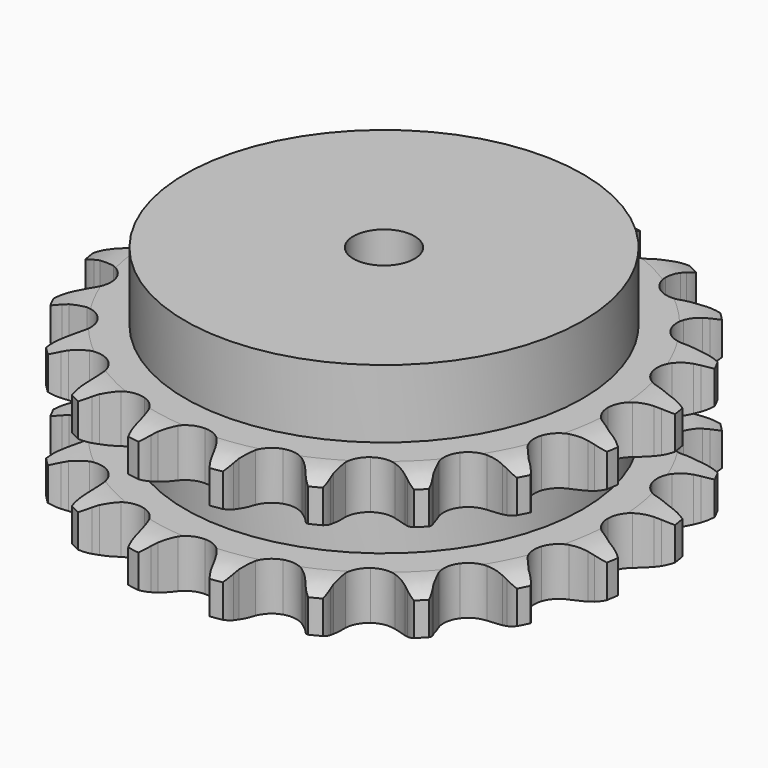
from build123d import *

# Parameters (mm, degrees)
PAD_DEPTH         = 47.7
SKETCH001_R       = 65
PAD001_DEPTH      = 70
SKETCH002_R       = 10
POCKET_DEPTH      = 0.0010001
POCKET_DEPTH_BACK = 70.001


with BuildPart() as part:
    # Sprocket → Pad (new body)
    with BuildSketch(Plane.XY):
        with BuildLine():
            ThreePointArc((-13.9557700893, 88.11326454), (-11.5599694596, 85.7200479297), (-9.8560429758, 82.7936199126))
            Line((-9.8560429758, 82.7936199126), (-9.0917752408, 80.9754988162))
            ThreePointArc((-9.0917752408, 80.9754988162), (-7.8619471368, 78.5195888422), (-6.3181126203, 76.2479053362))
            ThreePointArc((-6.3181126203, 76.2479053362), (-3.5147721807, 73.9778050086), (0, 73.166355913))
            ThreePointArc((0, 73.166355913), (3.5147721807, 73.9778050086), (6.3181126203, 76.2479053362))
            ThreePointArc((6.3181126203, 76.2479053362), (7.8619471368, 78.5195888422), (9.0917752408, 80.9754988162))
            Line((9.0917752408, 80.9754988162), (9.8560429758, 82.7936199126))
            ThreePointArc((9.8560429758, 82.7936199126), (11.5599694596, 85.7200479297), (13.9557700893, 88.11326454))
            ThreePointArc((13.9557700893, 88.11326454), (15.4947672862, 85.0968371782), (16.2109816818, 81.7870965024))
            Line((16.2109816818, 81.7870965024), (16.3760131748, 79.8217888679))
            ThreePointArc((16.3760131748, 79.8217888679), (16.7867312884, 77.1060418993), (17.5530163562, 74.4684713959))
            ThreePointArc((17.5530163562, 74.4684713959), (19.5176519685, 71.4431978499), (22.6096473936, 69.5853395647))
            ThreePointArc((22.6096473936, 69.5853395647), (26.20314594, 69.2709491795), (29.5707807126, 70.5636630518))
            Line((29.5707807126, 70.5636630518), (33.6695973496, 74.202762751))
            ThreePointArc((33.6695973496, 74.202762751), (34.296171492, 74.9645851603), (34.9582894759, 75.6957269487))
            ThreePointArc((34.9582894759, 75.6957269487), (37.4831358516, 77.9523831433), (40.5012222561, 79.4881242856))
            ThreePointArc((40.5012222561, 79.4881242856), (41.0327682517, 76.1437550991), (40.6911625038, 72.7746822423))
            Line((40.6911625038, 72.7746822423), (40.2408033224, 70.854566074))
            ThreePointArc((40.2408033224, 70.854566074), (39.792207495, 68.144818346), (39.7059337926, 65.399544623))
            ThreePointArc((39.7059337926, 65.399544623), (40.6395523555, 61.9152327115), (43.0061049697, 59.1928253501))
            ThreePointArc((43.0061049697, 59.1928253501), (46.3265732066, 57.7833702055), (49.928854757, 57.9721577819))
            Line((49.928854757, 57.9721577819), (54.95160468, 60.1665432666))
            ThreePointArc((54.95160468, 60.1665432666), (55.7829281723, 60.6974573751), (56.6385750333, 61.188208828))
            ThreePointArc((56.6385750333, 61.188208828), (59.7371917461, 62.5541959685), (63.0821325998, 63.0821325998))
            ThreePointArc((63.0821325998, 63.0821325998), (62.5541959685, 59.7371917461), (61.188208828, 56.6385750333))
            Line((61.188208828, 56.6385750333), (60.1665432666, 54.95160468))
            ThreePointArc((60.1665432666, 54.95160468), (58.9025451834, 52.51310518), (57.9721577819, 49.928854757))
            ThreePointArc((57.9721577819, 49.928854757), (57.7833702055, 46.3265732066), (59.1928253501, 43.0061049697))
            ThreePointArc((59.1928253501, 43.0061049697), (61.9152327115, 40.6395523555), (65.399544623, 39.7059337926))
            Line((65.399544623, 39.7059337926), (70.854566074, 40.2408033224))
            ThreePointArc((70.854566074, 40.2408033224), (71.8092631805, 40.4888395579), (72.7746822423, 40.6911625038))
            ThreePointArc((72.7746822423, 40.6911625038), (76.1437550991, 41.0327682517), (79.4881242856, 40.5012222561))
            ThreePointArc((79.4881242856, 40.5012222561), (77.9523831433, 37.4831358516), (75.6957269487, 34.9582894759))
            Line((75.6957269487, 34.9582894759), (74.202762751, 33.6695973496))
            ThreePointArc((74.202762751, 33.6695973496), (72.2470913511, 31.7410433988), (70.5636630518, 29.5707807126))
            ThreePointArc((70.5636630518, 29.5707807126), (69.2709491795, 26.20314594), (69.5853395647, 22.6096473936))
            ThreePointArc((69.5853395647, 22.6096473936), (71.4431978499, 19.5176519685), (74.4684713959, 17.5530163562))
            Line((74.4684713959, 17.5530163562), (79.8217888679, 16.3760131748))
            ThreePointArc((79.8217888679, 16.3760131748), (80.8064071841, 16.3168920224), (81.7870965024, 16.2109816818))
            ThreePointArc((81.7870965024, 16.2109816818), (85.0968371782, 15.4947672862), (88.11326454, 13.9557700893))
            ThreePointArc((88.11326454, 13.9557700893), (85.7200479297, 11.5599694596), (82.7936199126, 9.8560429758))
            Line((82.7936199126, 9.8560429758), (80.9754988162, 9.0917752408))
            ThreePointArc((80.9754988162, 9.0917752408), (78.5195888422, 7.8619471368), (76.2479053362, 6.3181126203))
            ThreePointArc((76.2479053362, 6.3181126203), (73.9778050086, 3.5147721807), (73.166355913, 0))
            ThreePointArc((73.166355913, 0), (73.9778050086, -3.5147721807), (76.2479053362, -6.3181126203))
            Line((76.2479053362, -6.3181126203), (80.9754988162, -9.0917752408))
            ThreePointArc((80.9754988162, -9.0917752408), (81.8936570411, -9.4522665907), (82.7936199126, -9.8560429758))
            ThreePointArc((82.7936199126, -9.8560429758), (85.7200479297, -11.5599694596), (88.11326454, -13.9557700893))
            ThreePointArc((88.11326454, -13.9557700893), (85.0968371782, -15.4947672862), (81.7870965024, -16.2109816818))
            Line((81.7870965024, -16.2109816818), (79.8217888679, -16.3760131748))
            ThreePointArc((79.8217888679, -16.3760131748), (77.1060418993, -16.7867312884), (74.4684713959, -17.5530163562))
            ThreePointArc((74.4684713959, -17.5530163562), (71.4431978499, -19.5176519685), (69.5853395647, -22.6096473936))
            ThreePointArc((69.5853395647, -22.6096473936), (69.2709491795, -26.20314594), (70.5636630518, -29.5707807126))
            Line((70.5636630518, -29.5707807126), (74.202762751, -33.6695973496))
            ThreePointArc((74.202762751, -33.6695973496), (74.9645851603, -34.296171492), (75.6957269487, -34.9582894759))
            ThreePointArc((75.6957269487, -34.9582894759), (77.9523831433, -37.4831358516), (79.4881242856, -40.5012222561))
            ThreePointArc((79.4881242856, -40.5012222561), (76.1437550991, -41.0327682517), (72.7746822423, -40.6911625038))
            Line((72.7746822423, -40.6911625038), (70.854566074, -40.2408033224))
            ThreePointArc((70.854566074, -40.2408033224), (68.144818346, -39.792207495), (65.399544623, -39.7059337926))
            ThreePointArc((65.399544623, -39.7059337926), (61.9152327115, -40.6395523555), (59.1928253501, -43.0061049697))
            ThreePointArc((59.1928253501, -43.0061049697), (57.7833702055, -46.3265732066), (57.9721577819, -49.928854757))
            Line((57.9721577819, -49.928854757), (60.1665432666, -54.95160468))
            ThreePointArc((60.1665432666, -54.95160468), (60.6974573751, -55.7829281723), (61.188208828, -56.6385750333))
            ThreePointArc((61.188208828, -56.6385750333), (62.5541959685, -59.7371917461), (63.0821325998, -63.0821325998))
            ThreePointArc((63.0821325998, -63.0821325998), (59.7371917461, -62.5541959685), (56.6385750333, -61.188208828))
            Line((56.6385750333, -61.188208828), (54.95160468, -60.1665432666))
            ThreePointArc((54.95160468, -60.1665432666), (52.51310518, -58.9025451834), (49.928854757, -57.9721577819))
            ThreePointArc((49.928854757, -57.9721577819), (46.3265732066, -57.7833702055), (43.0061049697, -59.1928253501))
            ThreePointArc((43.0061049697, -59.1928253501), (40.6395523555, -61.9152327115), (39.7059337926, -65.399544623))
            Line((39.7059337926, -65.399544623), (40.2408033224, -70.854566074))
            ThreePointArc((40.2408033224, -70.854566074), (40.4888395579, -71.8092631805), (40.6911625038, -72.7746822423))
            ThreePointArc((40.6911625038, -72.7746822423), (41.0327682517, -76.1437550991), (40.5012222561, -79.4881242856))
            ThreePointArc((40.5012222561, -79.4881242856), (37.4831358516, -77.9523831433), (34.9582894759, -75.6957269487))
            Line((34.9582894759, -75.6957269487), (33.6695973496, -74.202762751))
            ThreePointArc((33.6695973496, -74.202762751), (31.7410433988, -72.2470913511), (29.5707807126, -70.5636630518))
            ThreePointArc((29.5707807126, -70.5636630518), (26.20314594, -69.2709491795), (22.6096473936, -69.5853395647))
            ThreePointArc((22.6096473936, -69.5853395647), (19.5176519685, -71.4431978499), (17.5530163562, -74.4684713959))
            Line((17.5530163562, -74.4684713959), (16.3760131748, -79.8217888679))
            ThreePointArc((16.3760131748, -79.8217888679), (16.3168920224, -80.8064071841), (16.2109816818, -81.7870965024))
            ThreePointArc((16.2109816818, -81.7870965024), (15.4947672862, -85.0968371782), (13.9557700893, -88.11326454))
            ThreePointArc((13.9557700893, -88.11326454), (11.5599694596, -85.7200479297), (9.8560429758, -82.7936199126))
            Line((9.8560429758, -82.7936199126), (9.0917752408, -80.9754988162))
            ThreePointArc((9.0917752408, -80.9754988162), (7.8619471368, -78.5195888422), (6.3181126203, -76.2479053362))
            ThreePointArc((6.3181126203, -76.2479053362), (3.5147721807, -73.9778050086), (0, -73.166355913))
            ThreePointArc((0, -73.166355913), (-3.5147721807, -73.9778050086), (-6.3181126203, -76.2479053362))
            Line((-6.3181126203, -76.2479053362), (-9.0917752408, -80.9754988162))
            ThreePointArc((-9.0917752408, -80.9754988162), (-9.4522665907, -81.8936570411), (-9.8560429758, -82.7936199126))
            ThreePointArc((-9.8560429758, -82.7936199126), (-11.5599694596, -85.7200479297), (-13.9557700893, -88.11326454))
            ThreePointArc((-13.9557700893, -88.11326454), (-15.4947672862, -85.0968371782), (-16.2109816818, -81.7870965024))
            Line((-16.2109816818, -81.7870965024), (-16.3760131748, -79.8217888679))
            ThreePointArc((-16.3760131748, -79.8217888679), (-16.7867312884, -77.1060418993), (-17.5530163562, -74.4684713959))
            ThreePointArc((-17.5530163562, -74.4684713959), (-19.5176519685, -71.4431978499), (-22.6096473936, -69.5853395647))
            ThreePointArc((-22.6096473936, -69.5853395647), (-26.20314594, -69.2709491795), (-29.5707807126, -70.5636630518))
            Line((-29.5707807126, -70.5636630518), (-33.6695973496, -74.202762751))
            ThreePointArc((-33.6695973496, -74.202762751), (-34.296171492, -74.9645851603), (-34.9582894759, -75.6957269487))
            ThreePointArc((-34.9582894759, -75.6957269487), (-37.4831358516, -77.9523831433), (-40.5012222561, -79.4881242856))
            ThreePointArc((-40.5012222561, -79.4881242856), (-41.0327682517, -76.1437550991), (-40.6911625038, -72.7746822423))
            Line((-40.6911625038, -72.7746822423), (-40.2408033224, -70.854566074))
            ThreePointArc((-40.2408033224, -70.854566074), (-39.792207495, -68.144818346), (-39.7059337926, -65.399544623))
            ThreePointArc((-39.7059337926, -65.399544623), (-40.6395523555, -61.9152327115), (-43.0061049697, -59.1928253501))
            ThreePointArc((-43.0061049697, -59.1928253501), (-46.3265732066, -57.7833702055), (-49.928854757, -57.9721577819))
            Line((-49.928854757, -57.9721577819), (-54.95160468, -60.1665432666))
            ThreePointArc((-54.95160468, -60.1665432666), (-55.7829281723, -60.6974573751), (-56.6385750333, -61.188208828))
            ThreePointArc((-56.6385750333, -61.188208828), (-59.7371917461, -62.5541959685), (-63.0821325998, -63.0821325998))
            ThreePointArc((-63.0821325998, -63.0821325998), (-62.5541959685, -59.7371917461), (-61.188208828, -56.6385750333))
            Line((-61.188208828, -56.6385750333), (-60.1665432666, -54.95160468))
            ThreePointArc((-60.1665432666, -54.95160468), (-58.9025451834, -52.51310518), (-57.9721577819, -49.928854757))
            ThreePointArc((-57.9721577819, -49.928854757), (-57.7833702055, -46.3265732066), (-59.1928253501, -43.0061049697))
            ThreePointArc((-59.1928253501, -43.0061049697), (-61.9152327115, -40.6395523555), (-65.399544623, -39.7059337926))
            Line((-65.399544623, -39.7059337926), (-70.854566074, -40.2408033224))
            ThreePointArc((-70.854566074, -40.2408033224), (-71.8092631805, -40.4888395579), (-72.7746822423, -40.6911625038))
            ThreePointArc((-72.7746822423, -40.6911625038), (-76.1437550991, -41.0327682517), (-79.4881242856, -40.5012222561))
            ThreePointArc((-79.4881242856, -40.5012222561), (-77.9523831433, -37.4831358516), (-75.6957269487, -34.9582894759))
            Line((-75.6957269487, -34.9582894759), (-74.202762751, -33.6695973496))
            ThreePointArc((-74.202762751, -33.6695973496), (-72.2470913511, -31.7410433988), (-70.5636630518, -29.5707807126))
            ThreePointArc((-70.5636630518, -29.5707807126), (-69.2709491795, -26.20314594), (-69.5853395647, -22.6096473936))
            ThreePointArc((-69.5853395647, -22.6096473936), (-71.4431978499, -19.5176519685), (-74.4684713959, -17.5530163562))
            Line((-74.4684713959, -17.5530163562), (-79.8217888679, -16.3760131748))
            ThreePointArc((-79.8217888679, -16.3760131748), (-80.8064071841, -16.3168920224), (-81.7870965024, -16.2109816818))
            ThreePointArc((-81.7870965024, -16.2109816818), (-85.0968371782, -15.4947672862), (-88.11326454, -13.9557700893))
            ThreePointArc((-88.11326454, -13.9557700893), (-85.7200479297, -11.5599694596), (-82.7936199126, -9.8560429758))
            Line((-82.7936199126, -9.8560429758), (-80.9754988162, -9.0917752408))
            ThreePointArc((-80.9754988162, -9.0917752408), (-78.5195888422, -7.8619471368), (-76.2479053362, -6.3181126203))
            ThreePointArc((-76.2479053362, -6.3181126203), (-73.9778050086, -3.5147721807), (-73.166355913, 0))
            ThreePointArc((-73.166355913, 0), (-73.9778050086, 3.5147721807), (-76.2479053362, 6.3181126203))
            Line((-76.2479053362, 6.3181126203), (-80.9754988162, 9.0917752408))
            ThreePointArc((-80.9754988162, 9.0917752408), (-81.8936570411, 9.4522665907), (-82.7936199126, 9.8560429758))
            ThreePointArc((-82.7936199126, 9.8560429758), (-85.7200479297, 11.5599694596), (-88.11326454, 13.9557700893))
            ThreePointArc((-88.11326454, 13.9557700893), (-85.0968371782, 15.4947672862), (-81.7870965024, 16.2109816818))
            Line((-81.7870965024, 16.2109816818), (-79.8217888679, 16.3760131748))
            ThreePointArc((-79.8217888679, 16.3760131748), (-77.1060418993, 16.7867312884), (-74.4684713959, 17.5530163562))
            ThreePointArc((-74.4684713959, 17.5530163562), (-71.4431978499, 19.5176519685), (-69.5853395647, 22.6096473936))
            ThreePointArc((-69.5853395647, 22.6096473936), (-69.2709491795, 26.20314594), (-70.5636630518, 29.5707807126))
            Line((-70.5636630518, 29.5707807126), (-74.202762751, 33.6695973496))
            ThreePointArc((-74.202762751, 33.6695973496), (-74.9645851603, 34.296171492), (-75.6957269487, 34.9582894759))
            ThreePointArc((-75.6957269487, 34.9582894759), (-77.9523831433, 37.4831358516), (-79.4881242856, 40.5012222561))
            ThreePointArc((-79.4881242856, 40.5012222561), (-76.1437550991, 41.0327682517), (-72.7746822423, 40.6911625038))
            Line((-72.7746822423, 40.6911625038), (-70.854566074, 40.2408033224))
            ThreePointArc((-70.854566074, 40.2408033224), (-68.144818346, 39.792207495), (-65.399544623, 39.7059337926))
            ThreePointArc((-65.399544623, 39.7059337926), (-61.9152327115, 40.6395523555), (-59.1928253501, 43.0061049697))
            ThreePointArc((-59.1928253501, 43.0061049697), (-57.7833702055, 46.3265732066), (-57.9721577819, 49.928854757))
            Line((-57.9721577819, 49.928854757), (-60.1665432666, 54.95160468))
            ThreePointArc((-60.1665432666, 54.95160468), (-60.6974573751, 55.7829281723), (-61.188208828, 56.6385750333))
            ThreePointArc((-61.188208828, 56.6385750333), (-62.5541959685, 59.7371917461), (-63.0821325998, 63.0821325998))
            ThreePointArc((-63.0821325998, 63.0821325998), (-59.7371917461, 62.5541959685), (-56.6385750333, 61.188208828))
            Line((-56.6385750333, 61.188208828), (-54.95160468, 60.1665432666))
            ThreePointArc((-54.95160468, 60.1665432666), (-52.51310518, 58.9025451834), (-49.928854757, 57.9721577819))
            ThreePointArc((-49.928854757, 57.9721577819), (-46.3265732066, 57.7833702055), (-43.0061049697, 59.1928253501))
            ThreePointArc((-43.0061049697, 59.1928253501), (-40.6395523555, 61.9152327115), (-39.7059337926, 65.399544623))
            Line((-39.7059337926, 65.399544623), (-40.2408033224, 70.854566074))
            ThreePointArc((-40.2408033224, 70.854566074), (-40.4888395579, 71.8092631805), (-40.6911625038, 72.7746822423))
            ThreePointArc((-40.6911625038, 72.7746822423), (-41.0327682517, 76.1437550991), (-40.5012222561, 79.4881242856))
            ThreePointArc((-40.5012222561, 79.4881242856), (-37.4831358516, 77.9523831433), (-34.9582894759, 75.6957269487))
            Line((-34.9582894759, 75.6957269487), (-33.6695973496, 74.202762751))
            ThreePointArc((-33.6695973496, 74.202762751), (-31.7410433988, 72.2470913511), (-29.5707807126, 70.5636630518))
            ThreePointArc((-29.5707807126, 70.5636630518), (-26.20314594, 69.2709491795), (-22.6096473936, 69.5853395647))
            ThreePointArc((-22.6096473936, 69.5853395647), (-19.5176519685, 71.4431978499), (-17.5530163562, 74.4684713959))
            Line((-17.5530163562, 74.4684713959), (-16.3760131748, 79.8217888679))
            ThreePointArc((-16.3760131748, 79.8217888679), (-16.3168920224, 80.8064071841), (-16.2109816818, 81.7870965024))
            ThreePointArc((-16.2109816818, 81.7870965024), (-15.4947672862, 85.0968371782), (-13.9557700893, 88.11326454))
        make_face()
    extrude(amount=PAD_DEPTH)

    # Sketch → Groove (revolve, cut)
    with BuildSketch(Plane.XZ):
        with BuildLine():
            ThreePointArc((75.4757022694, 0), (81.1765793949, 0.6326982121), (86.6, 2.5))
            Line((86.6, 2.5), (86.6, 13.3))
            ThreePointArc((86.6, 13.3), (81.1765793949, 15.1673017879), (75.4757022694, 15.8))
            Line((65, 15.8), (75.4757022694, 15.8))
            Line((65, 31.9), (65, 15.8))
            Line((75.4757022694, 31.9), (65, 31.9))
            ThreePointArc((75.4757022694, 31.9), (81.1765793949, 32.5326982121), (86.6, 34.4))
            Line((86.6, 34.4), (86.6, 45.2))
            ThreePointArc((86.6, 45.2), (81.1765793949, 47.0673017879), (75.4757022694, 47.7))
            Line((75.4757022694, 47.7), (96.6, 47.7))
            Line((96.6, 47.7), (96.6, 0))
            Line((75.4757022694, 0), (96.6, 0))
        make_face()
    revolve(axis=Axis((0, 0, 0), (0, 0, 1)), mode=Mode.SUBTRACT)

    # Sketch001 → Pad001 (join)
    with BuildSketch(Plane.XY):
        Circle(SKETCH001_R)
    extrude(amount=PAD001_DEPTH)

    # Sketch002 → Pocket (cut, two sides)
    with BuildSketch(Plane.XY) as pocket_sk:
        Circle(SKETCH002_R)
    extrude(amount=-POCKET_DEPTH, mode=Mode.SUBTRACT)
    extrude(pocket_sk.sketch, amount=POCKET_DEPTH_BACK, mode=Mode.SUBTRACT)


solid = part.part
